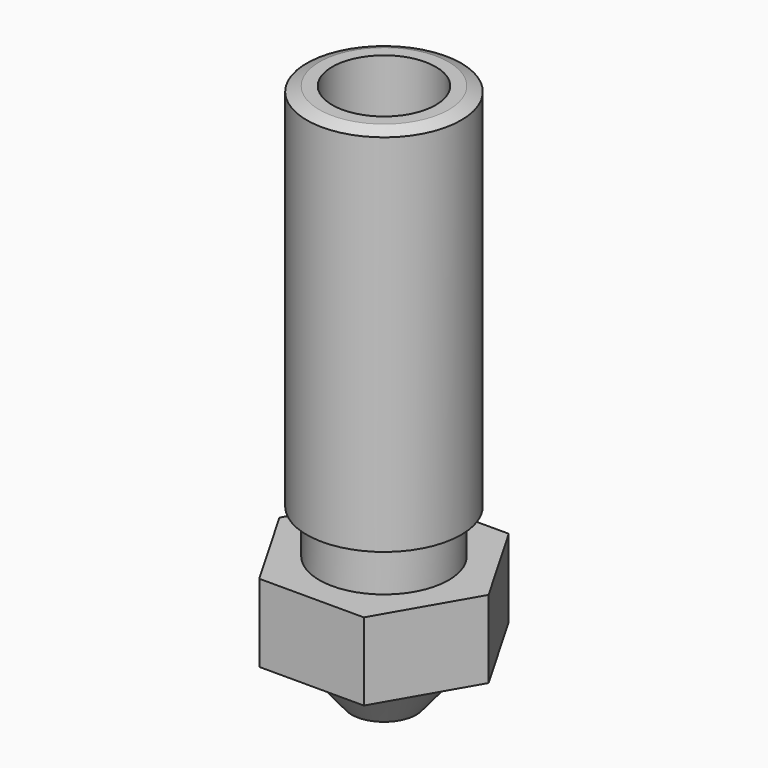
from build123d import *

# Parameters (mm, degrees)
F0_W     = 1.2707259422
F0_H     = 3
F2_R     = 2.5
F2_R_2   = 2.0207259422
F3_DEPTH = 3


with BuildPart() as f1:
    # F0 (on Front) → F1 (revolve)
    with BuildSketch(Plane.XZ):
        Polygon((-21.4229148179, -4.8091755062), (-21.4229148179, -4.8227669001), (-20.1521888758, -4.8227669001), (-19.6729148179, -4.8227669001), (-19.6729148179, -3.3227669001), (-19.1892255098, -3.125249641), (-19.1892255098, 10.9797158409), (-19.6729148179, 11.1772330999), (-20.1729148179, 11.1772330999), (-20.1729148179, -2.6441119968), align=None)
        with Locations((-20.7875518468, -6.3227669001)):
            Rectangle(F0_W, F0_H)
        Polygon((-21.4229148179, -7.8227669001), (-21.4229148179, -9.8091755062), (-20.9229148179, -9.8091755062), (-19.2720282078, -7.8227669001), (-20.1521888758, -7.8227669001), align=None)
    revolve(axis=Axis((-22.1729148179, 0, 14.5059827045), (0, 0, 1)))

    # F2 (on face) → F3 (join, through all)
    with BuildSketch(Plane(origin=(0, 0, -4.8227669001), x_dir=(1, 0, 0), z_dir=(0, 0, -1))):
        Polygon((-20.1521888758, 3.5), (-24.1936407601, 3.5), (-26.2143667023, 0), (-24.1936407601, -3.5), (-20.1521888758, -3.5), (-18.1314629336, 0), align=None)
        with Locations((-22.1729148179, 0)):
            Circle(F2_R, mode=Mode.SUBTRACT)
        with Locations((-22.1729148179, 0)):
            Circle(F2_R)
        with Locations((-22.1729148179, 0)):
            Circle(F2_R_2, mode=Mode.SUBTRACT)
    extrude(amount=F3_DEPTH)


with BuildPart() as f1_1:
    # F4: moved
    add(f1.part.moved(Location((22.1729148179, 0, 9.8091755062))))


solid = f1_1.part
